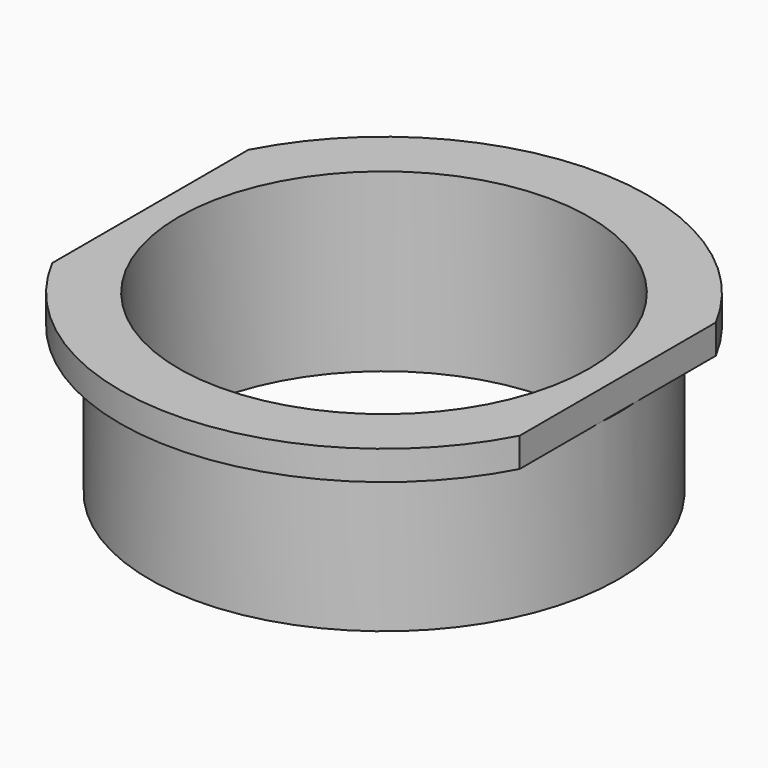
from build123d import *

# Parameters (mm, degrees)
F0_R     = 50.8
F0_R_2   = 44.45
F1_DEPTH = 31.75
F3_DEPTH = 6.35
F4_R     = 44.45
F5_DEPTH = 25.4


with BuildPart() as f1:
    # F0 (on Top) → F1 (new body)
    with BuildSketch(Plane.XY):
        Circle(F0_R)
        Circle(F0_R_2, mode=Mode.SUBTRACT)
    extrude(amount=F1_DEPTH)

    # F2 (on face) → F3 (join)
    with BuildSketch(Plane.XY.offset(31.75)):
        with BuildLine():
            Line((-50.613235, -1.072882), (-50.613235, -26.540967))
            ThreePointArc((-50.613235, -26.540967), (0, -57.15), (50.613235, -26.540967))
            Line((50.613235, -26.540967), (50.613235, 26.540967))
            ThreePointArc((50.613235, 26.540967), (0, 57.15), (-50.613235, 26.540967))
            Line((-50.613235, 26.540967), (-50.613235, -1.072882))
        make_face()
    extrude(amount=F3_DEPTH)

    # F4 (on face) → F5 (cut)
    with BuildSketch(Plane(origin=(0, 0, 31.75), x_dir=(1, 0, 0), z_dir=(0, 0, -1))):
        Circle(F4_R)
    extrude(amount=-F5_DEPTH, mode=Mode.SUBTRACT)


solid = f1.part
